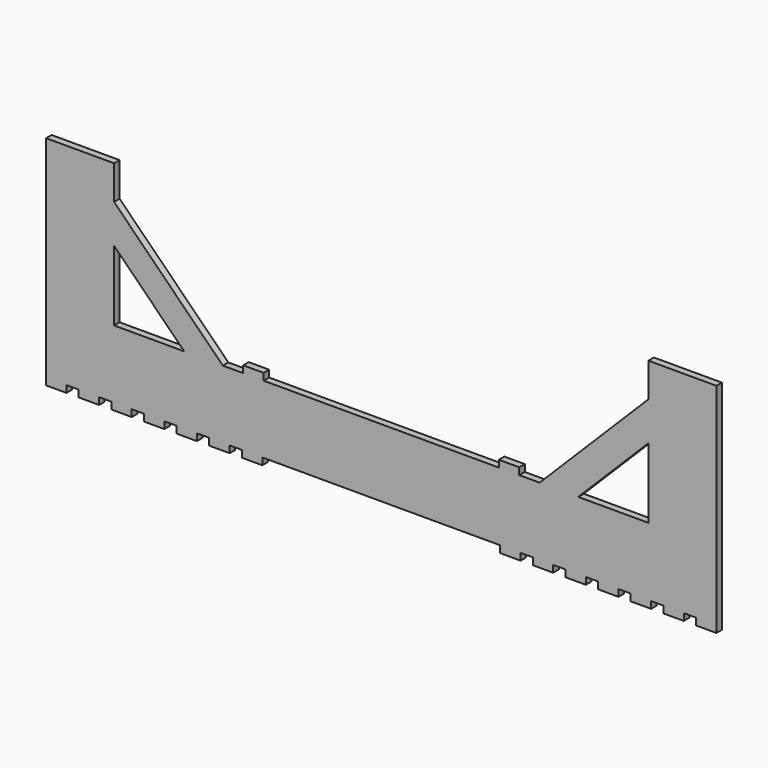
from build123d import *

# Parameters (mm, degrees)
F0_W      = 15
F0_H      = 5.08
F1_DEPTH  = 5.08
F1_FACE_W = 50
F1_FACE_H = 5.08
F2_DEPTH  = 25
F3_W      = 15
F3_H      = 5.08
F4_DEPTH  = 5.08
F5_W      = 15
F5_H      = 5.08
F6_DEPTH  = 5.08


with BuildPart() as f1:
    # F0 (on Front) → F1 (new body)
    with BuildSketch(Plane.XZ):
        Polygon((-87.5, 0), (0, 0), (0, 50), (-116.5, 50), (-144.902377, 50), (-196.5, 50), (-196.5, 101.597623), (-196.5, 130), (-246.5, 130), (-246.5, 0), (-231.5, 0), (-222.5, 0), (-207.5, 0), (-198.5, 0), (-183.5, 0), (-174.5, 0), (-159.5, 0), (-150.5, 0), (-135.5, 0), (-126.5, 0), (-111.5, 0), (-102.5, 0), align=None)
        Polygon((0, 50), (0, 0), (87.5, 0), (102.5, 0), (111.5, 0), (126.5, 0), (135.5, 0), (150.5, 0), (159.5, 0), (174.5, 0), (183.5, 0), (198.5, 0), (207.5, 0), (222.5, 0), (231.5, 0), (246.5, 0), (246.5, 130), (196.5, 130), (196.5, 101.597623), (196.5, 50), (144.902377, 50), (116.5, 50), align=None)
        with Locations((-95, -2.54)):
            Rectangle(F0_W, F0_H)
        with Locations((95, -2.54)):
            Rectangle(F0_W, F0_H)
        Polygon((-144.902377, 50), (-116.5, 50), (-196.5, 130), (-196.5, 101.597623), align=None)
        Polygon((196.5, 130), (116.5, 50), (144.902377, 50), (196.5, 101.597623), align=None)
        with Locations((-119, -2.54)):
            Rectangle(F0_W, F0_H)
        with Locations((119, -2.54)):
            Rectangle(F0_W, F0_H)
        with Locations((-143, -2.54)):
            Rectangle(F0_W, F0_H)
        with Locations((-239, -2.54)):
            Rectangle(F0_W, F0_H)
        with Locations((239, -2.54)):
            Rectangle(F0_W, F0_H)
        with Locations((143, -2.54)):
            Rectangle(F0_W, F0_H)
        with Locations((-167, -2.54)):
            Rectangle(F0_W, F0_H)
        with Locations((-215, -2.54)):
            Rectangle(F0_W, F0_H)
        with Locations((215, -2.54)):
            Rectangle(F0_W, F0_H)
        with Locations((167, -2.54)):
            Rectangle(F0_W, F0_H)
        with Locations((-191, -2.54)):
            Rectangle(F0_W, F0_H)
        with Locations((191, -2.54)):
            Rectangle(F0_W, F0_H)
    extrude(amount=F1_DEPTH)

    # F1_face (on face) → F2 (join)
    with BuildSketch(Plane(origin=(-221.5, -2.54, 130), x_dir=(1, 0, 0), z_dir=(0, 0, 1))):
        Rectangle(F1_FACE_W, F1_FACE_H)
        with Locations((443, 0)):
            Rectangle(F1_FACE_W, F1_FACE_H)
    extrude(amount=F2_DEPTH)

    # F3 (on face) → F4 (join)
    with BuildSketch(Plane.XY.offset(50)):
        with Locations((94, -2.54)):
            Rectangle(F3_W, F3_H)
    extrude(amount=F4_DEPTH)

    # F5 (on face) → F6 (join)
    with BuildSketch(Plane.XY.offset(50)):
        with Locations((-94, -2.54)):
            Rectangle(F5_W, F5_H)
    extrude(amount=F6_DEPTH)


solid = f1.part
